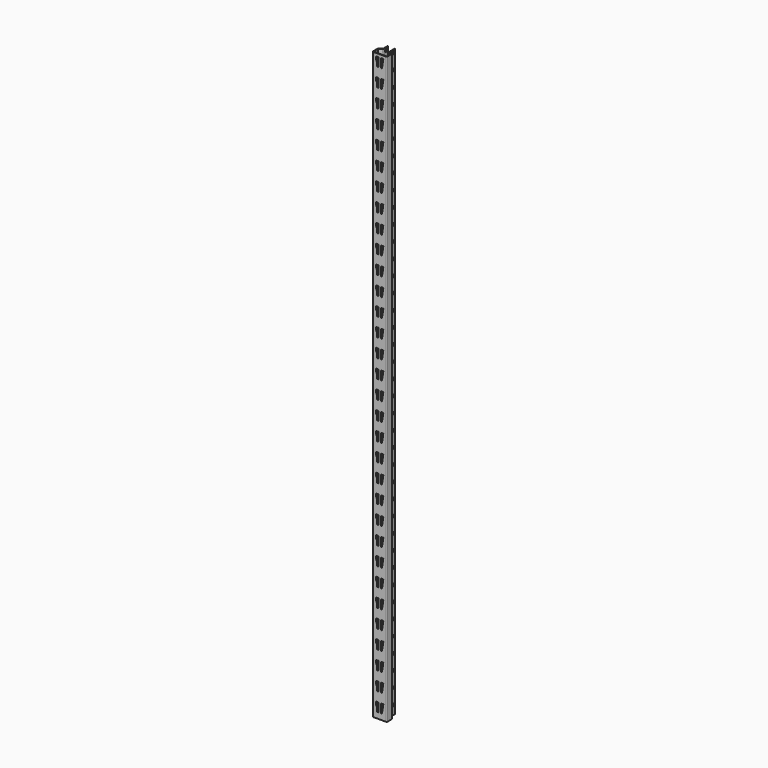
from build123d import *

# Parameters (mm, degrees)
PAD_DEPTH              = 2000
THICKNESS_T            = -2
POCKET_DEPTH           = 2
LINEARPATTERN_COUNT    = 32
LINEARPATTERN_PITCH    = 62.580645
SKETCH002_R            = 4.5
POCKET001_DEPTH        = 37.501
LINEARPATTERN001_COUNT = 39
LINEARPATTERN001_PITCH = 51.578947
BODY_PLACEMENT_ANGLE   = 180


with BuildPart() as part:
    # Sketch → Pad (new body)
    with BuildSketch(Plane.XY):
        with BuildLine():
            Line((-13, 25), (-13, 7))
            ThreePointArc((-14.089153, 4.936142), (-13.288991, 5.833192), (-13, 7))
            Line((-14.089153, 4.936142), (-23.410847, -1.436142))
            ThreePointArc((-23.410847, -1.436142), (-24.211009, -2.333192), (-24.5, -3.5))
            Line((-24.5, -3.5), (-24.5, -22.5))
            ThreePointArc((-24.5, -22.5), (-23.767767, -24.267767), (-22, -25))
            Line((-22, -25), (0, -25))
            Line((0, -25), (0, 25))
            Line((-13, 25), (0, 25))
        make_face()
    pad = extrude(amount=PAD_DEPTH)

    # Mirrored: Pad across Sketch V_Axis
    add(pad.mirror(Plane(origin=(0, 0, 0), x_dir=(0, 0, 1), z_dir=(1, 0, 0))))

    # Thickness
    thickness_openings = [part.faces().sort_by_distance(p)[0] for p in [
        (0, -3.672144, 2000),
        (0, 25, 1000),
        (0, -3.672144, 0),
    ]]
    offset(amount=THICKNESS_T, openings=thickness_openings)

    # Sketch001 (on Face25 of Thickness) → Pocket (cut)
    with BuildSketch(Plane(origin=(0, -23, 0), x_dir=(-1, 0, 0), z_dir=(0, 1, 0))):
        Polygon((-4.5, 40), (-4.5, 10), (-12.5, 10), (-11.5, 21.958261), (-9.5, 25.03337), (-8.5, 40), align=None)
        Polygon((4.5, 40), (4.5, 10), (12.5, 10), (11.5, 21.958261), (9.5, 25.03337), (8.5, 40), align=None)
    pocket = extrude(amount=-POCKET_DEPTH, mode=Mode.SUBTRACT)

    # LinearPattern: Pocket ×32
    with Locations(*[(0, 0, i * LINEARPATTERN_PITCH) for i in range(1, LINEARPATTERN_COUNT)]):
        add(pocket, mode=Mode.SUBTRACT)

    # Sketch002 (on Face9 of LinearPattern) → Pocket001 (cut, through all)
    with BuildSketch(Plane.YZ.offset(13)):
        with Locations((16, 9)):
            Circle(SKETCH002_R)
    pocket001 = extrude(amount=-POCKET001_DEPTH, mode=Mode.SUBTRACT)

    # LinearPattern001: Pocket001 ×39
    with Locations(*[(0, 0, i * LINEARPATTERN001_PITCH) for i in range(1, LINEARPATTERN001_COUNT)]):
        add(pocket001, mode=Mode.SUBTRACT)


with BuildPart() as part_1:
    # Body placement: moved
    add(part.part.moved(Location((0, 0, 2000))).rotate(Axis((0, 0, 2000), (0, 1, 0)), BODY_PLACEMENT_ANGLE))


solid = part_1.part
